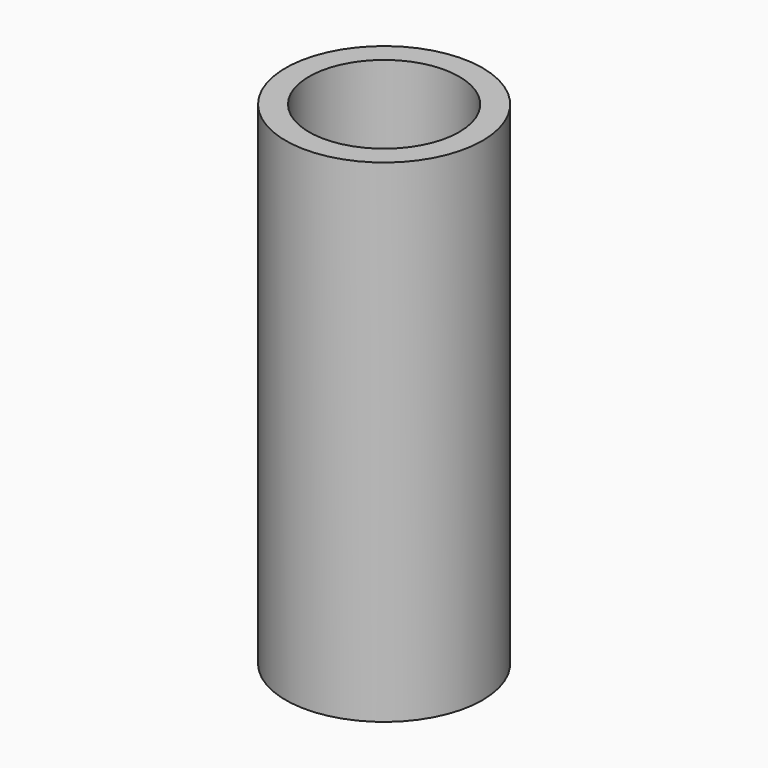
from build123d import *

# Parameters (mm, degrees)
PRISM_DEPTH       = 3.1
CYLINDER021_R     = 2
CYLINDER021_DEPTH = 10
CYLINDER020_R     = 8
CYLINDER020_DEPTH = 5
CYLINDER023_R     = 6.1
CYLINDER023_DEPTH = 35
CYLINDER022_R     = 8
CYLINDER022_DEPTH = 35
FILLET_R          = 3


with BuildPart() as prism:
    # Prism → Prism (new body)
    with BuildSketch(Plane.XY.offset(1)):
        Polygon((3.25, 0), (1.625, 2.814583), (-1.625, 2.814583), (-3.25, 0), (-1.625, -2.814583), (1.625, -2.814583), align=None)
    extrude(amount=PRISM_DEPTH)


with BuildPart() as cylinder021:
    # Cylinder021 → Cylinder021 (new body)
    with BuildSketch(Plane.XY):
        Circle(CYLINDER021_R)
    extrude(amount=CYLINDER021_DEPTH)


with BuildPart() as cut017:
    # Cylinder020 → Cylinder020 (new body)
    with BuildSketch(Plane.XY):
        Circle(CYLINDER020_R)
    extrude(amount=CYLINDER020_DEPTH)

    # Cut015: cut Cylinder021
    add(cylinder021.part, mode=Mode.SUBTRACT)

    # Cut017: cut Prism
    add(prism.part, mode=Mode.SUBTRACT)


with BuildPart() as cylinder023:
    # Cylinder023 → Cylinder023 (new body)
    with BuildSketch(Plane.XY):
        Circle(CYLINDER023_R)
    extrude(amount=CYLINDER023_DEPTH)


with BuildPart() as fillet_body:
    # Cylinder022 → Cylinder022 (new body)
    with BuildSketch(Plane.XY):
        Circle(CYLINDER022_R)
    extrude(amount=CYLINDER022_DEPTH)

    # Cut016: cut Cylinder023
    add(cylinder023.part, mode=Mode.SUBTRACT)


with BuildPart() as fillet_body_1:
    # Cut016 placement: moved
    add(fillet_body.part.moved(Location((0, 0, 5))))

    # Fusion010: union Cut017
    add(cut017.part)

    # Fillet
    fillet_edges = [fillet_body_1.edges().sort_by_distance(p)[0] for p in [
        (-6.1, 0, 5),
    ]]
    fillet(fillet_edges, radius=FILLET_R)


solid = fillet_body_1.part
